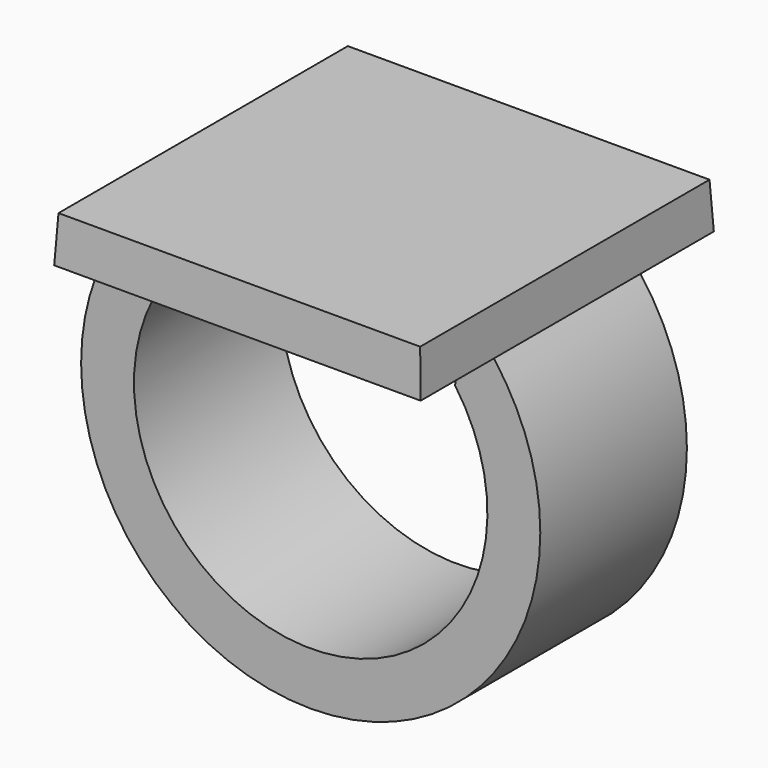
from build123d import *

# Parameters (mm, degrees)
F0_W     = 25.4
F0_H     = 25.4
F1_DEPTH = 3.175
F1_TAPER = 3
F3_W     = 5.08
F3_H     = 12.7


with BuildPart() as f1:
    # F0 (on Top) → F1 (new body)
    with BuildSketch(Plane.XY):
        Rectangle(F0_W, F0_H)
    extrude(amount=F1_DEPTH, taper=F1_TAPER)

    # F4: sweep along a path in F2
    with BuildLine(Plane.XZ) as f4_path:
        ThreePointArc((-10.16, 0), (0, -23.5582897328), (10.16, 0))
    # F3 (on face) → F4 (sweep)
    with BuildSketch(Plane(origin=(0, 0, 0), x_dir=(1, 0, 0), z_dir=(0, 0, -1))):
        with Locations((-10.16, 0)):
            Rectangle(F3_W, F3_H)
    sweep(path=f4_path.line)


solid = f1.part
